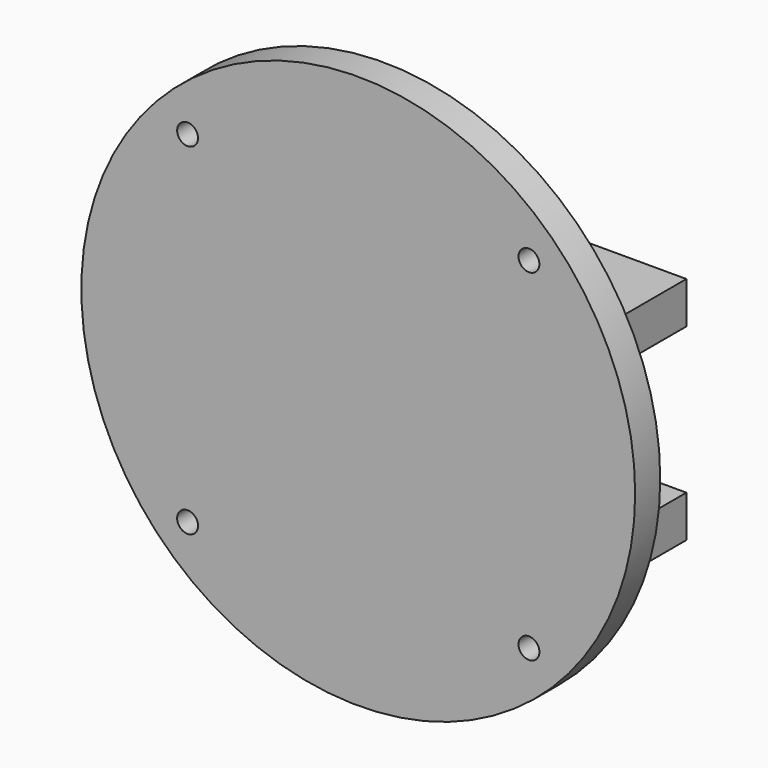
from build123d import *

# Parameters (mm, degrees)
F0_W     = 21
F0_H     = 4
F0_R     = 26.5
F0_R_2   = 1
F1_DEPTH = 3
F2_DEPTH = 10
F4_R     = 1
F5_DEPTH = 37.501


with BuildPart() as f1:
    # F0 (on Front) → F1 (new body)
    with BuildSketch(Plane.XZ):
        with Locations((10.5, 9)):
            Rectangle(F0_W, F0_H)
        with Locations((-10.5, 9)):
            Rectangle(F0_W, F0_H)
        Circle(F0_R)
        with Locations((-16.334167, -16.334167)):
            Circle(F0_R_2, mode=Mode.SUBTRACT)
        with Locations((16.334167, -16.334167)):
            Circle(F0_R_2, mode=Mode.SUBTRACT)
        with Locations((-16.334167, 16.334167)):
            Circle(F0_R_2, mode=Mode.SUBTRACT)
        Polygon((21, 7), (0, 7), (-21, 7), (-21, 11), (0, 11), (21, 11), align=None, mode=Mode.SUBTRACT)
        with Locations((16.334167, 16.334167)):
            Circle(F0_R_2, mode=Mode.SUBTRACT)
    extrude(amount=F1_DEPTH)

    # F0 (on Front) → F2 (join)
    with BuildSketch(Plane.XZ):
        with Locations((10.5, 9)):
            Rectangle(F0_W, F0_H)
        with Locations((-10.5, 9)):
            Rectangle(F0_W, F0_H)
    extrude(amount=-F2_DEPTH)

    # F3: F1 across plane


with BuildPart() as f1_1:
    add(f1.part)
    add(f1.part.mirror(Plane.XY))

    # F4 (on face) → F5 (cut, through all)
    with BuildSketch(Plane.XY.offset(11)):
        with Locations((-12, 3)):
            Circle(F4_R)
        with Locations((12, 3)):
            Circle(F4_R)
    extrude(amount=-F5_DEPTH, mode=Mode.SUBTRACT)


solid = f1_1.part
